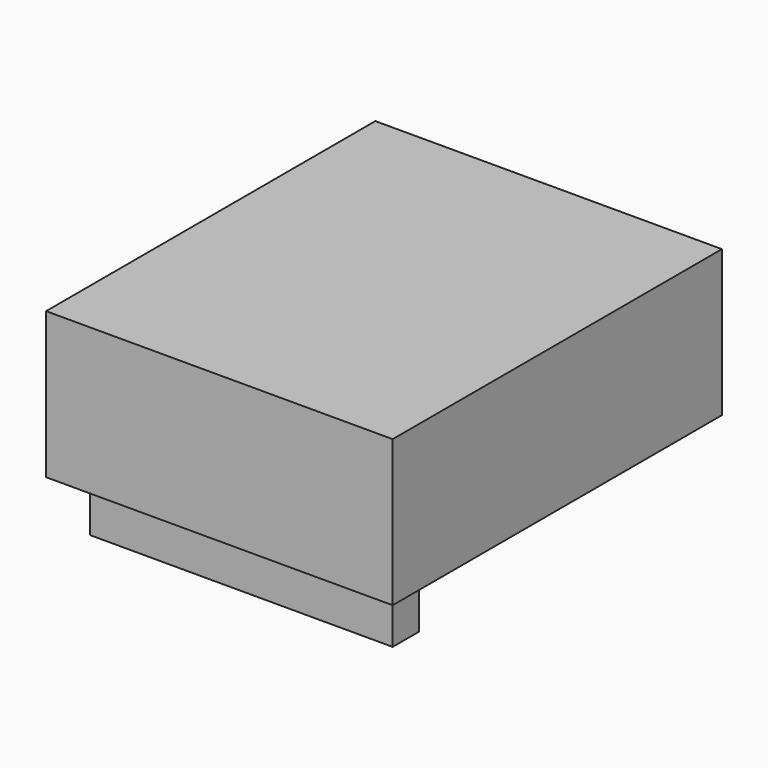
from build123d import *

# Parameters (mm, degrees)
F0_W     = 27.94
F0_H     = 3.048
F1_DEPTH = 5.08
F2_W     = 32
F2_H     = 38
F2_W_2   = 27.94
F2_H_2   = 3.048
F3_DEPTH = 13.5


with BuildPart() as f1:
    # F0 (on Top) → F1 (new body)
    with BuildSketch(Plane.XY):
        Rectangle(F0_W, F0_H)
    extrude(amount=F1_DEPTH)

    # F2 (on face) → F3 (join)
    with BuildSketch(Plane.XY.offset(5.08)):
        with Locations((0, 14.936)):
            Rectangle(F2_W, F2_H)
        Rectangle(F2_W_2, F2_H_2, mode=Mode.SUBTRACT)
        Rectangle(F2_W_2, F2_H_2)
    extrude(amount=F3_DEPTH)


solid = f1.part
